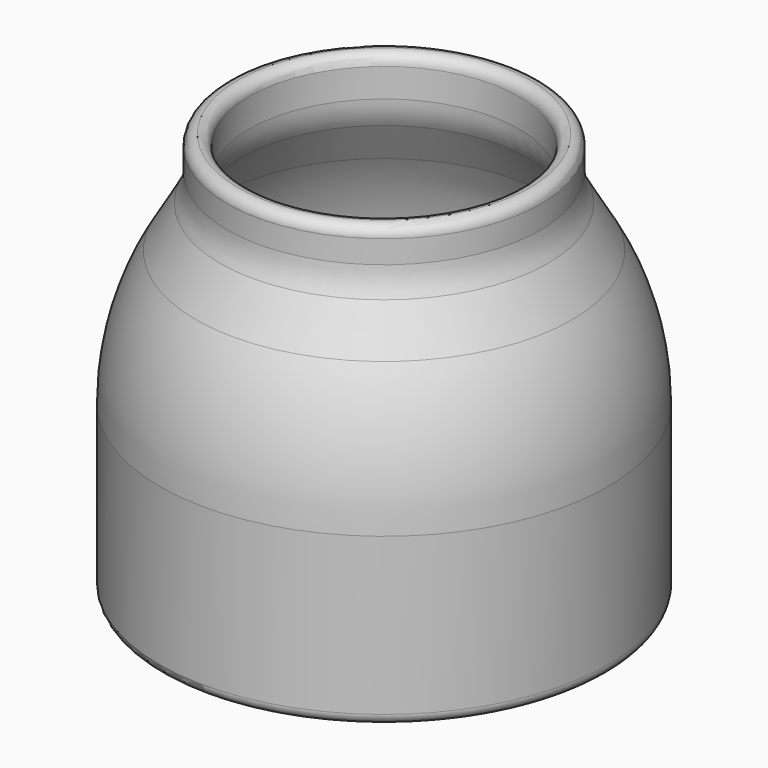
from build123d import *


with BuildPart() as f1:
    # F0 (on Front) → F1 (revolve)
    with BuildSketch(Plane.XZ):
        with BuildLine():
            Line((-15.8, 0), (0, 0))
            Line((0, 0), (0, 1.6))
            Line((0, 1.6), (-11, 1.6))
            ThreePointArc((-11, 1.6), (-13.828427, 2.771573), (-15, 5.6))
            Line((-15, 5.6), (-15, 11.980762))
            ThreePointArc((-15, 11.980762), (-14.318517, 17.157143), (-12.320508, 21.980762))
            Line((-12.320508, 21.980762), (-10.535898, 25.071797))
            ThreePointArc((-10.535898, 25.071797), (-10.136297, 26.036521), (-10, 27.071797))
            Line((-10, 27.071797), (-10, 29.2))
            ThreePointArc((-10, 29.2), (-10.234315, 29.765685), (-10.8, 30))
            ThreePointArc((-10.8, 30), (-11.365685, 29.765685), (-11.6, 29.2))
            Line((-11.6, 29.2), (-11.6, 27.500515))
            ThreePointArc((-11.6, 27.500515), (-11.736297, 26.465239), (-12.135898, 25.500515))
            Line((-12.135898, 25.500515), (-13.920508, 22.409481))
            ThreePointArc((-13.920508, 22.409481), (-15.918517, 17.585862), (-16.6, 12.409481))
            Line((-16.6, 12.409481), (-16.6, 0.8))
            ThreePointArc((-16.6, 0.8), (-16.365685, 0.234315), (-15.8, 0))
        make_face()
    revolve(axis=Axis((0, 0, 17.728048), (0, 0, -1)))


solid = f1.part
